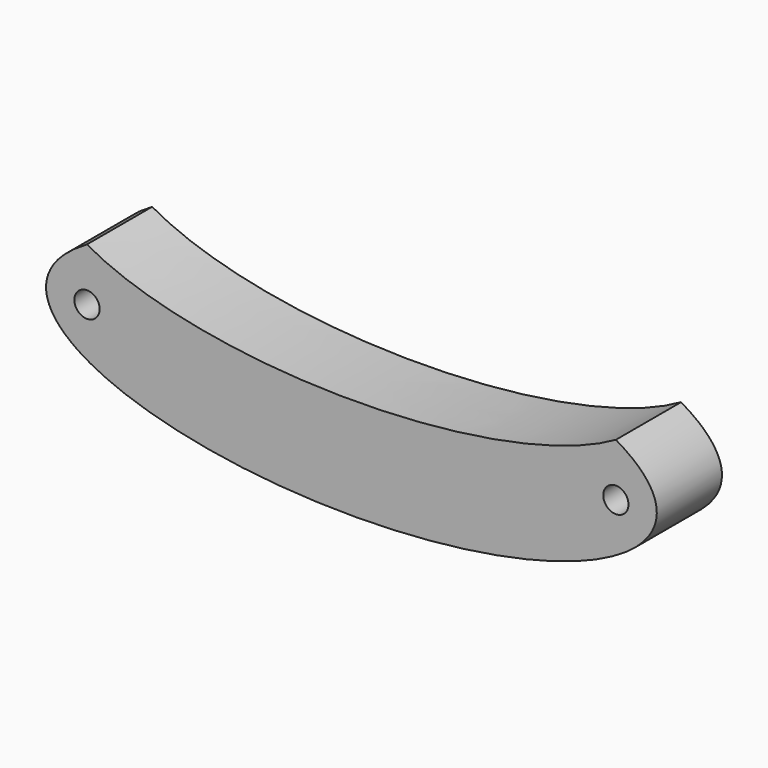
from build123d import *

# Parameters (mm, degrees)
F0_R     = 3.1
F1_DEPTH = 20


with BuildPart() as f1:
    # F0 (on Front) → F1 (new body)
    with BuildSketch(Plane.XZ):
        with BuildLine():
            add(Edge.make_bspline(
                [(-70.9734109712, 14.8521506228), (-6.0215056874, -22.6478493772), (58.9303995964, 14.8521506228)],
                knots=[3.6651914292, 3.6651914292, 3.6651914292, 5.7595865316, 5.7595865316, 5.7595865316], degree=2, weights=[1, 0.5, 1]))
            add(Edge.make_bspline(
                [(-70.9734109712, 14.8521506228), (-135.9253162551, -22.6478493772), (-6.0215056874, -22.6478493772), (123.8823048803, -22.6478493772), (58.9303995964, 14.8521506228)],
                knots=[2.617993878, 2.617993878, 2.617993878, 4.7123889804, 4.7123889804, 6.8067840828, 6.8067840828, 6.8067840828], degree=2, weights=[1, 0.5, 1, 0.5, 1]))
        make_face()
        with Locations((-70.9734109712, 1.8521506228)):
            Circle(F0_R, mode=Mode.SUBTRACT)
        with Locations((58.9303995964, 1.8521506228)):
            Circle(F0_R, mode=Mode.SUBTRACT)
    extrude(amount=F1_DEPTH)


solid = f1.part
